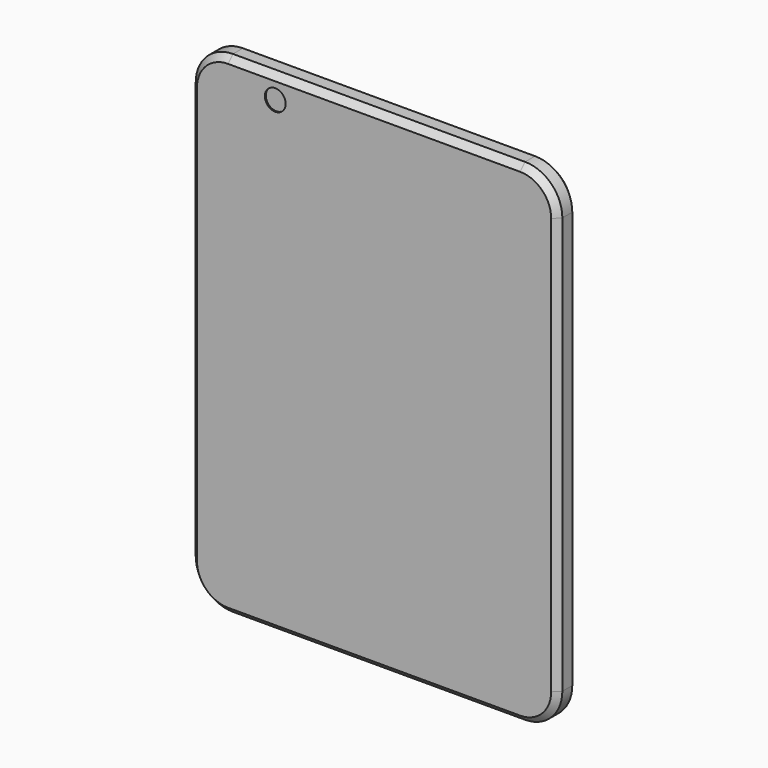
from build123d import *

# Parameters (mm, degrees)
F0_W     = 75.02421
F0_H     = 100.512072
F1_DEPTH = 5.08
F2_R     = 7.62
F3_SIZE  = 1.27
F4_R     = 2.129316
F5_DEPTH = 0.254
F6_SIZE  = 1.27


with BuildPart() as f1:
    # F0 (on Front) → F1 (new body)
    with BuildSketch(Plane.XZ):
        Rectangle(F0_W, F0_H)
    extrude(amount=F1_DEPTH)

    # F2
    f2_edges = [f1.edges().sort_by_distance(p)[0] for p in [
        (-37.512105, -2.54, 50.256036),
        (-37.512105, -2.54, -50.256036),
        (37.512105, -2.54, 50.256036),
        (37.512105, -2.54, -50.256036),
    ]]
    fillet(f2_edges, radius=F2_R)

    # F3
    f3_edges = [f1.edges().sort_by_distance(p)[0] for p in [
        (0, -5.08, -50.256036),
        (-35.280259, -5.08, -48.02419),
        (35.280259, -5.08, -48.02419),
        (-37.512105, -5.08, 0),
        (37.512105, -5.08, 0),
        (-35.280259, -5.08, 48.02419),
        (35.280259, -5.08, 48.02419),
        (0, -5.08, 50.256036),
    ]]
    chamfer(f3_edges, length=F3_SIZE)

    # F4 (on face) → F5 (cut)
    with BuildSketch(Plane.XZ.offset(5.08)):
        with Locations((-20.219289, 45.626208)):
            Circle(F4_R)
    extrude(amount=-F5_DEPTH, mode=Mode.SUBTRACT)

    # F6
    f6_edges = [f1.edges().sort_by_distance(p)[0] for p in [
        (0, 0, -50.256036),
        (-35.280259, 0, -48.02419),
        (35.280259, 0, -48.02419),
        (-37.512105, 0, 0),
        (37.512105, 0, 0),
        (-35.280259, 0, 48.02419),
        (35.280259, 0, 48.02419),
        (0, 0, 50.256036),
    ]]
    chamfer(f6_edges, length=F6_SIZE)


solid = f1.part
